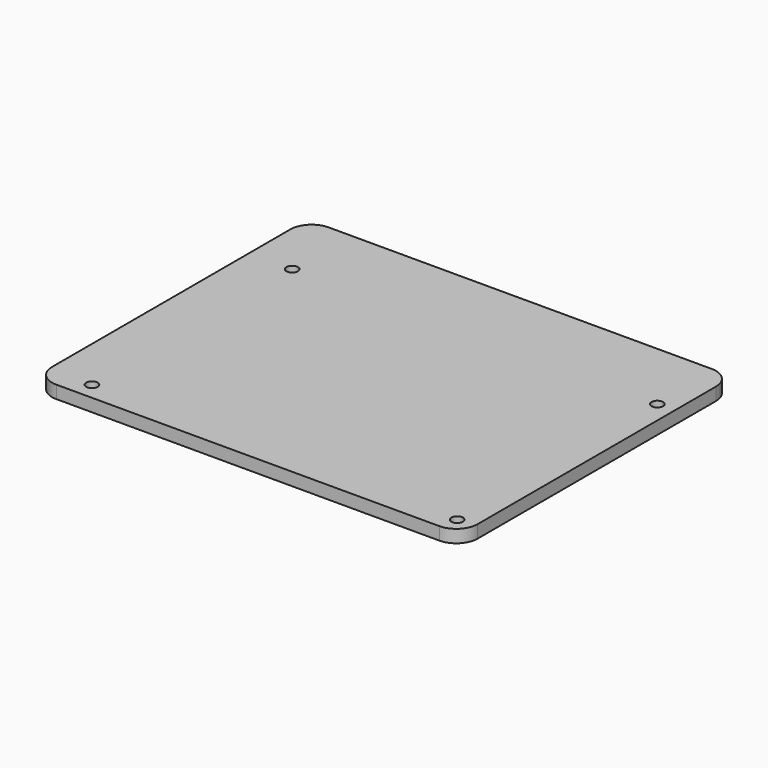
from build123d import *

# Parameters (mm, degrees)
SKETCH_W     = 100
SKETCH_H     = 80
SKETCH_R     = 1.35
PAD_DEPTH    = 3
SKETCH001_W  = 70.7
SKETCH001_H  = 20.2
POCKET_DEPTH = 2
FILLET_R     = 5


with BuildPart() as part:
    # Sketch → Pad (new body)
    with BuildSketch(Plane.XY):
        Rectangle(SKETCH_W, SKETCH_H)
        with Locations((-39.85, 22.85)):
            Circle(SKETCH_R, mode=Mode.SUBTRACT)
        with Locations((45.95, 22.85)):
            Circle(SKETCH_R, mode=Mode.SUBTRACT)
        with Locations((-39.85, -35.95)):
            Circle(SKETCH_R, mode=Mode.SUBTRACT)
        with Locations((45.95, -35.95)):
            Circle(SKETCH_R, mode=Mode.SUBTRACT)
    extrude(amount=PAD_DEPTH)

    # Sketch001 (on Face9 of Pad) → Pocket (cut)
    with BuildSketch(Plane(origin=(0, 0, 0), x_dir=(1, 0, 0), z_dir=(0, 0, -1))):
        with Locations((0, 24.9)):
            Rectangle(SKETCH001_W, SKETCH001_H)
        with Locations((0, -24.9)):
            Rectangle(SKETCH001_W, SKETCH001_H)
    extrude(amount=-POCKET_DEPTH, mode=Mode.SUBTRACT)

    # Fillet
    fillet_edges = [part.edges().sort_by_distance(p)[0] for p in [
        (-50, 40, 1.5),
        (50, 40, 1.5),
        (-50, -40, 1.5),
        (50, -40, 1.5),
    ]]
    fillet(fillet_edges, radius=FILLET_R)


solid = part.part
